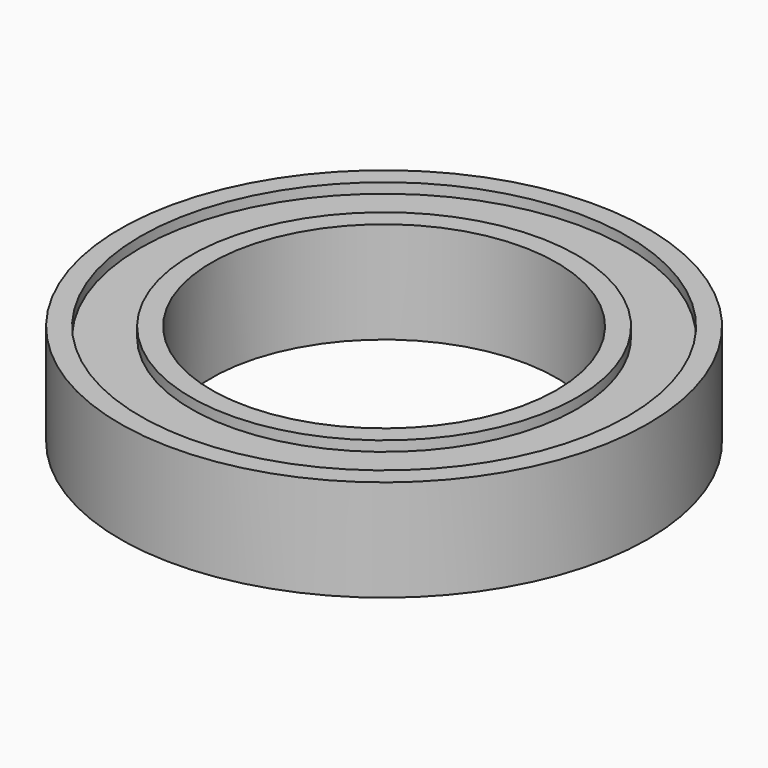
from build123d import *

# Parameters (mm, degrees)
SKETCH013_R     = 13
SKETCH013_R_2   = 8.5
PAD008_DEPTH    = 5
SKETCH014_R     = 12
SKETCH014_R_2   = 9.5
POCKET006_DEPTH = 0.5
SKETCH015_R     = 12
SKETCH015_R_2   = 9.5
POCKET007_DEPTH = 0.5


with BuildPart() as part:
    # Sketch013 → Pad008 (new body)
    with BuildSketch(Plane.XY):
        Circle(SKETCH013_R)
        Circle(SKETCH013_R_2, mode=Mode.SUBTRACT)
    extrude(amount=PAD008_DEPTH)

    # Sketch014 → Pocket006 (cut)
    with BuildSketch(Plane.XY.offset(5)):
        Circle(SKETCH014_R)
        Circle(SKETCH014_R_2, mode=Mode.SUBTRACT)
    extrude(amount=-POCKET006_DEPTH, mode=Mode.SUBTRACT)

    # Sketch015 → Pocket007 (cut)
    with BuildSketch(Plane.XY):
        Circle(SKETCH015_R)
        Circle(SKETCH015_R_2, mode=Mode.SUBTRACT)
    extrude(amount=POCKET007_DEPTH, mode=Mode.SUBTRACT)


solid = part.part
